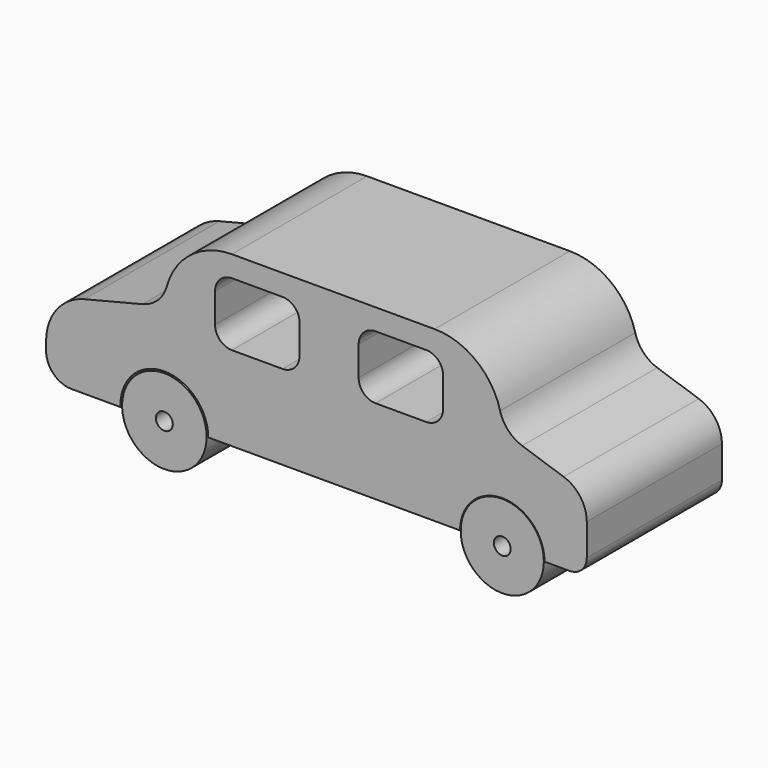
from build123d import *

# Parameters (mm, degrees)
F0_R     = 63.5
F0_R_2   = 12.7
F0_R_3   = 62.515755
F1_DEPTH = 254


with BuildPart() as f1:
    # F0 (on Front) → F1 (new body)
    with BuildSketch(Plane.XZ):
        with BuildLine():
            Line((152.4, 127), (-152.4, 127))
            ThreePointArc((-152.4, 127), (-213.802498, 106.346237), (-250.240573, 52.782151))
            ThreePointArc((-250.240573, 52.782151), (-263.744501, 30.054529), (-286.84005, 17.189987))
            Line((-286.84005, 17.189987), (-374.081215, -4.620304))
            ThreePointArc((-374.081215, -4.620304), (-415.661254, -31.650752), (-431.8, -78.545162))
            Line((-431.8, -78.545162), (-431.8, -91.682994))
            ThreePointArc((-431.8, -91.682994), (-420.640768, -118.623762), (-393.7, -129.782994))
            Line((-393.7, -129.782994), (-319.981335, -129.782994))
            ThreePointArc((-319.981335, -129.782994), (-255.391806, -60.974668), (-187.96, -127))
            Line((-187.96, -127), (190.5, -127))
            ThreePointArc((190.5, -127), (254, -63.5), (317.5, -127))
            Line((317.5, -127), (355.6, -127))
            ThreePointArc((355.6, -127), (373.560512, -119.560512), (381, -101.6))
            Line((381, -101.6), (381, -53.547902))
            ThreePointArc((381, -53.547902), (371.411103, -23.844619), (346.264371, -5.35479))
            Line((346.264371, -5.35479), (283.860146, 15.446618))
            ThreePointArc((283.860146, 15.446618), (262.801036, 28.962833), (250.749678, 50.893153))
            ThreePointArc((250.749678, 50.893153), (214.578998, 105.751305), (152.4, 127))
        make_face()
        with BuildLine():
            ThreePointArc((-177.8, 69.85), (-170.360512, 87.810512), (-152.4, 95.25))
            Line((-152.4, 95.25), (-76.2, 95.25))
            ThreePointArc((-76.2, 95.25), (-58.239488, 87.810512), (-50.8, 69.85))
            Line((-50.8, 69.85), (-50.8, 25.4))
            ThreePointArc((-50.8, 25.4), (-58.239488, 7.439488), (-76.2, 0))
            Line((-76.2, 0), (-152.4, 0))
            ThreePointArc((-152.4, 0), (-170.360512, 7.439488), (-177.8, 25.4))
            Line((-177.8, 25.4), (-177.8, 69.85))
        make_face(mode=Mode.SUBTRACT)
        with BuildLine():
            Line((38.1, 25.4), (38.1, 69.85))
            ThreePointArc((38.1, 69.85), (45.539488, 87.810512), (63.5, 95.25))
            Line((63.5, 95.25), (139.7, 95.25))
            ThreePointArc((139.7, 95.25), (157.660512, 87.810512), (165.1, 69.85))
            Line((165.1, 69.85), (165.1, 25.4))
            ThreePointArc((165.1, 25.4), (157.660512, 7.439488), (139.7, 0))
            Line((139.7, 0), (63.5, 0))
            ThreePointArc((63.5, 0), (45.539488, 7.439488), (38.1, 25.4))
        make_face(mode=Mode.SUBTRACT)
        with Locations((-254, -127)):
            Circle(F0_R)
        with Locations((-254, -127)):
            Circle(F0_R_2, mode=Mode.SUBTRACT)
        with Locations((254, -127)):
            Circle(F0_R_3)
        with Locations((254, -127)):
            Circle(F0_R_2, mode=Mode.SUBTRACT)
    extrude(amount=F1_DEPTH)


solid = f1.part
